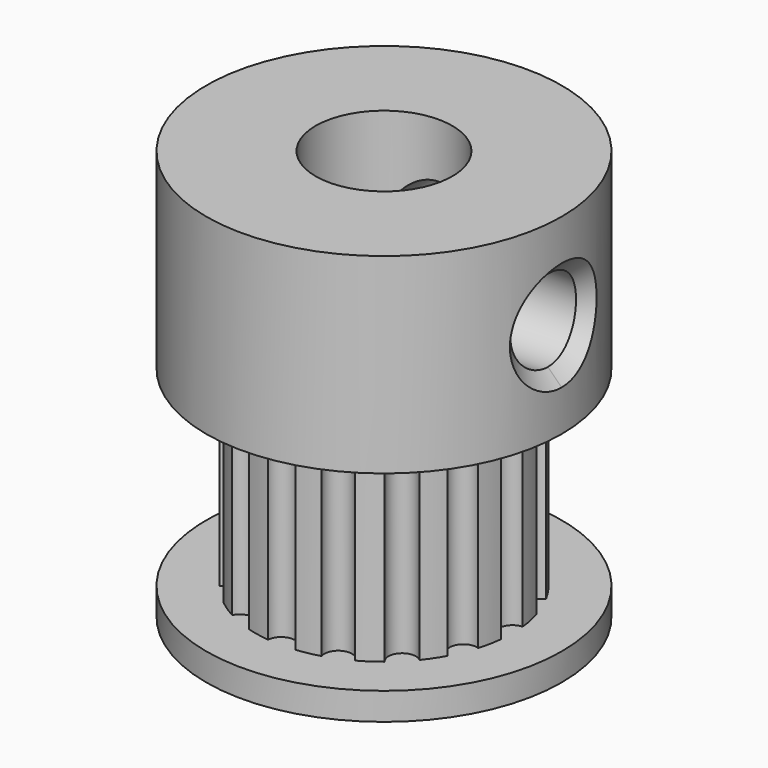
from build123d import *

# Parameters (mm, degrees)
SKETCH068_R            = 0.5
PAD053_DEPTH           = 7
SKETCH067_R            = 1.5
PAD052_DEPTH           = 8
SKETCH066_R            = 1.5
PAD051_DEPTH           = 8
SKETCH065_R            = 2.5
POCKET001_DEPTH        = 15
CHAMFER002_SIZE        = 0.5
CHAMFER003_SIZE        = 0.5
CUT005_PLACEMENT_ANGLE = 180


with BuildPart() as pad053:
    # Sketch068 → Pad053 (new body)
    with BuildSketch(Plane.XY.offset(14)):
        with Locations((0, 4.7)):
            Circle(SKETCH068_R)
        with Locations((0, -4.7)):
            Circle(SKETCH068_R)
        with Locations((4.7, 0)):
            Circle(SKETCH068_R)
        with Locations((-4.7, 0)):
            Circle(SKETCH068_R)
        with Locations((-3.323402, 3.323402)):
            Circle(SKETCH068_R)
        with Locations((3.323402, 3.323402)):
            Circle(SKETCH068_R)
        with Locations((-3.323402, -3.323402)):
            Circle(SKETCH068_R)
        with Locations((3.323402, -3.323402)):
            Circle(SKETCH068_R)
        with Locations((-1.798612, 4.342234)):
            Circle(SKETCH068_R)
        with Locations((1.798612, 4.342234)):
            Circle(SKETCH068_R)
        with Locations((4.342234, 1.798612)):
            Circle(SKETCH068_R)
        with Locations((4.342234, -1.798612)):
            Circle(SKETCH068_R)
        with Locations((1.798612, -4.342234)):
            Circle(SKETCH068_R)
        with Locations((-1.798612, -4.342234)):
            Circle(SKETCH068_R)
        with Locations((-4.342234, -1.798612)):
            Circle(SKETCH068_R)
        with Locations((-4.314713, 1.863666)):
            Circle(SKETCH068_R)
    extrude(amount=-PAD053_DEPTH)


with BuildPart() as pad052:
    # Sketch067 → Pad052 (new body)
    with BuildSketch(Plane(origin=(7, 0, 3.5), x_dir=(0, 1, 0), z_dir=(1, 0, 0))):
        Circle(SKETCH067_R)
    extrude(amount=-PAD052_DEPTH)


with BuildPart() as pad051:
    # Sketch066 → Pad051 (new body)
    with BuildSketch(Plane(origin=(0, -7, 3.5), x_dir=(1, 0, 0), z_dir=(0, -1, 0))):
        Circle(SKETCH066_R)
    extrude(amount=-PAD051_DEPTH)


with BuildPart() as gt1_pulley001:
    # Sketch064 → Revolution004 (revolve)
    with BuildSketch(Plane.XZ):
        Polygon((0, 0), (6.5, 0), (6.5, 7), (4.7, 7), (4.7, 14), (6.5, 14), (6.5, 15), (0, 15), align=None)
    revolve(axis=Axis((0, 0, 0), (0, 0, 1)))

    # Sketch065 (on Face7 of Revolution004) → Pocket001 (cut)
    with BuildSketch(Plane(origin=(0, 0, 15), x_dir=(-1, 0, 0), z_dir=(0, 0, 1))):
        Circle(SKETCH065_R)
    extrude(amount=-POCKET001_DEPTH, mode=Mode.SUBTRACT)

    # Cut003: cut Pad051
    add(pad051.part, mode=Mode.SUBTRACT)

    # Cut004: cut Pad052
    add(pad052.part, mode=Mode.SUBTRACT)

    # Chamfer002
    chamfer002_edges = [gt1_pulley001.edges().sort_by_distance(p)[0] for p in [
        (-4e-06, -6.499997, 4.999986),
        (-4e-06, -6.499997, 2.000014),
        (6.412872, 1.060693, 4.560627),
        (6.412872, 1.060693, 2.439373),
        (6.412872, -1.060693, 2.439373),
        (6.412872, -1.060693, 4.560627),
    ]]
    chamfer(chamfer002_edges, length=CHAMFER002_SIZE)

    # Chamfer003
    chamfer003_edges = [gt1_pulley001.edges().sort_by_distance(p)[0] for p in [
        (2.5, 0, 15),
    ]]
    chamfer(chamfer003_edges, length=CHAMFER003_SIZE)

    # Cut005: cut Pad053
    add(pad053.part, mode=Mode.SUBTRACT)


with BuildPart() as gt1_pulley001_1:
    # Cut005 placement: moved
    add(gt1_pulley001.part.moved(Location((-4, 0, 26))).rotate(Axis((-4, 0, 26), (1, 0, 0)), CUT005_PLACEMENT_ANGLE))


solid = gt1_pulley001_1.part
